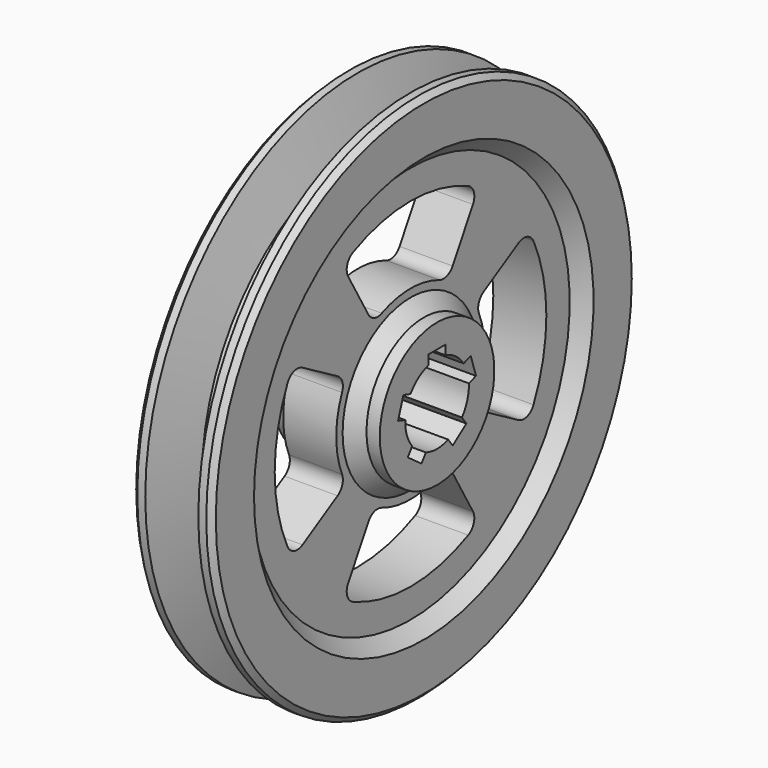
from build123d import *

# Parameters (mm, degrees)
F3_DEPTH = 70


with BuildPart() as f1:
    # F0 (on Top) → F1 (revolve)
    with BuildSketch(Plane.XY):
        Polygon((20, -27), (20, 0), (-20, 0), (-20, -27), (-15, -27), (-10, -32), (-10, -75), (-15, -80), (-15, -98), (-13, -100), (-10, -100), (-4.641016, -80), (0, -80), (4.641016, -80), (10, -100), (13, -100), (15, -98), (15, -80), (10, -75), (10, -32), (15, -27), align=None)
    revolve(axis=Axis((0, 0, 0), (1, 0, 0)))

    # F2 (on face) → F3 (cut, symmetric)
    with BuildSketch(Plane.YZ.offset(10)):
        with BuildLine():
            ThreePointArc((29.393877, 50.911688), (29.83415, 54.909449), (27.187796, 57.938103))
            ThreePointArc((27.187796, 57.938103), (0, 64), (-27.187796, 57.938103))
            ThreePointArc((-27.187796, 57.938103), (-29.83415, 54.909449), (-29.393877, 50.911688))
            Line((-29.393877, 50.911688), (-19.843135, 34.369318))
            ThreePointArc((-19.843135, 34.369318), (-17.107009, 32.130208), (-13.573882, 32.260653))
            ThreePointArc((-13.573882, 32.260653), (0, 35), (13.573882, 32.260653))
            ThreePointArc((13.573882, 32.260653), (17.107009, 32.130208), (19.843135, 34.369318))
            Line((19.843135, 34.369318), (29.393877, 50.911688))
        make_face()
        with BuildLine():
            Line((-4, 18), (-4, 14.456832))
            ThreePointArc((-4, 14.456832), (-8.816779, 12.135255), (-12.513197, 8.271633))
            Line((-12.513197, 8.271633), (-15.882949, 9.366532))
            Line((-15.882949, 9.366532), (-18.355085, 1.75808))
            Line((-18.355085, 1.75808), (-14.985333, 0.663181))
            ThreePointArc((-14.985333, 0.663181), (-14.265848, -4.635255), (-11.733581, -9.344682))
            Line((-11.733581, -9.344682), (-13.816203, -12.211165))
            Line((-13.816203, -12.211165), (-7.344067, -16.913447))
            Line((-7.344067, -16.913447), (-5.261445, -14.046964))
            ThreePointArc((-5.261445, -14.046964), (0, -15), (5.261445, -14.046964))
            Line((5.261445, -14.046964), (7.344067, -16.913447))
            Line((7.344067, -16.913447), (13.816203, -12.211165))
            Line((13.816203, -12.211165), (11.733581, -9.344682))
            ThreePointArc((11.733581, -9.344682), (14.265848, -4.635255), (14.985333, 0.663181))
            Line((14.985333, 0.663181), (18.355085, 1.75808))
            Line((18.355085, 1.75808), (15.882949, 9.366532))
            Line((15.882949, 9.366532), (12.513197, 8.271633))
            ThreePointArc((12.513197, 8.271633), (8.816779, 12.135255), (4, 14.456832))
            Line((4, 14.456832), (4, 18))
            Line((4, 18), (-4, 18))
        make_face()
        with BuildLine():
            ThreePointArc((-50.911688, 29.393877), (-54.909449, 29.83415), (-57.938103, 27.187796))
            ThreePointArc((-57.938103, 27.187796), (-64, 0), (-57.938103, -27.187796))
            ThreePointArc((-57.938103, -27.187796), (-54.909449, -29.83415), (-50.911688, -29.393877))
            Line((-50.911688, -29.393877), (-34.369318, -19.843135))
            ThreePointArc((-34.369318, -19.843135), (-32.130208, -17.107009), (-32.260653, -13.573882))
            ThreePointArc((-32.260653, -13.573882), (-35, 0), (-32.260653, 13.573882))
            ThreePointArc((-32.260653, 13.573882), (-32.130208, 17.107009), (-34.369318, 19.843135))
            Line((-34.369318, 19.843135), (-50.911688, 29.393877))
        make_face()
        with BuildLine():
            ThreePointArc((-29.393877, -50.911688), (-29.83415, -54.909449), (-27.187796, -57.938103))
            ThreePointArc((-27.187796, -57.938103), (0, -64), (27.187796, -57.938103))
            ThreePointArc((27.187796, -57.938103), (29.83415, -54.909449), (29.393877, -50.911688))
            Line((29.393877, -50.911688), (19.843135, -34.369318))
            ThreePointArc((19.843135, -34.369318), (17.107009, -32.130208), (13.573882, -32.260653))
            ThreePointArc((13.573882, -32.260653), (0, -35), (-13.573882, -32.260653))
            ThreePointArc((-13.573882, -32.260653), (-17.107009, -32.130208), (-19.843135, -34.369318))
            Line((-19.843135, -34.369318), (-29.393877, -50.911688))
        make_face()
        with BuildLine():
            ThreePointArc((50.911688, -29.393877), (54.909449, -29.83415), (57.938103, -27.187796))
            ThreePointArc((57.938103, -27.187796), (64, 0), (57.938103, 27.187796))
            ThreePointArc((57.938103, 27.187796), (54.909449, 29.83415), (50.911688, 29.393877))
            Line((50.911688, 29.393877), (34.369318, 19.843135))
            ThreePointArc((34.369318, 19.843135), (32.130208, 17.107009), (32.260653, 13.573882))
            ThreePointArc((32.260653, 13.573882), (35, 0), (32.260653, -13.573882))
            ThreePointArc((32.260653, -13.573882), (32.130208, -17.107009), (34.369318, -19.843135))
            Line((34.369318, -19.843135), (50.911688, -29.393877))
        make_face()
    extrude(amount=F3_DEPTH, both=True, mode=Mode.SUBTRACT)


solid = f1.part
